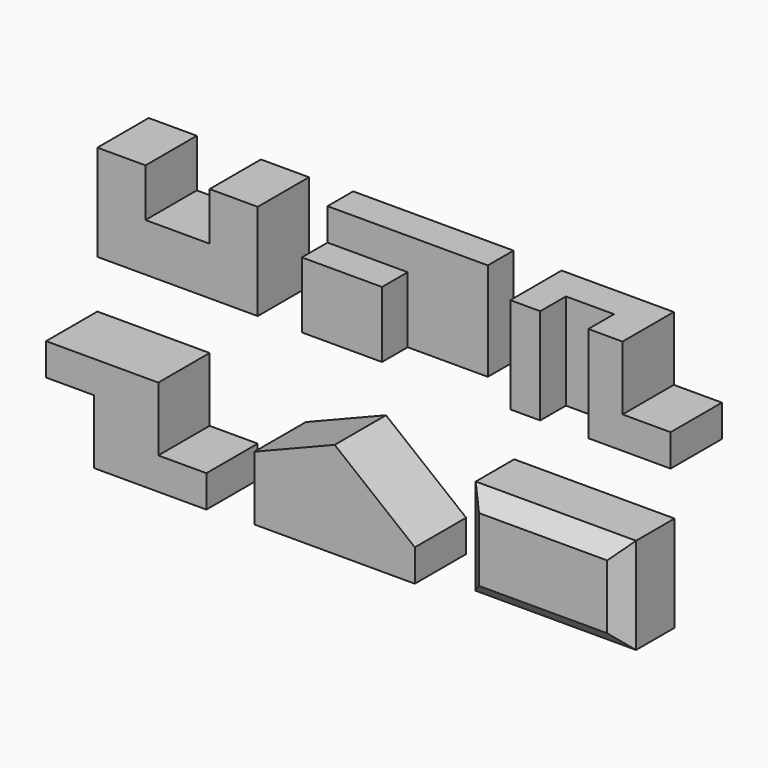
from build123d import *

# Parameters (mm, degrees)
F1_DEPTH   = 101.6
F3_DEPTH   = 155.448
F4_W       = 127
F4_H       = 35.615544
F5_DEPTH   = 50.8
F6_W       = 127
F6_H       = 50.8
F7_DEPTH   = 50.8
F9_DEPTH   = 101.6
F10_W      = 76.2
F10_H      = 50.8
F11_DEPTH  = 152.4
F13_DEPTH  = 101.6
F15_DEPTH  = 101.6
F16_W      = 254
F16_H      = 152.4
F17_DEPTH  = 101.6
F17_FACE_W = 254
F17_FACE_H = 152.4
F18_DEPTH  = 25.4
F19_SIZE   = 25.4


with BuildPart() as f1:
    # F0 (on Front) → F1 (new body)
    with BuildSketch(Plane.XZ):
        Polygon((0, 152.4), (0, 0), (254, 0), (254, 152.4), (177.8, 152.4), (177.8, 76.2), (76.2, 76.2), (76.2, 152.4), align=None)
    extrude(amount=-F1_DEPTH)


with BuildPart() as f3:
    # F2 (on Top) → F3 (new body)
    with BuildSketch(Plane.XY):
        Polygon((323.9641, 101.6), (323.9641, 0), (450.9641, 0), (450.9641, 50.8), (577.9641, 50.8), (577.9641, 101.6), align=None)
    extrude(amount=F3_DEPTH)

    # F4 (on face) → F5 (join)
    with BuildSketch(Plane.XZ):
        with Locations((387.4641, 137.640228)):
            Rectangle(F4_W, F4_H)
    extrude(amount=-F5_DEPTH)

    # F6 (on face) → F7 (cut)
    with BuildSketch(Plane.XZ):
        with Locations((387.4641, 130.048)):
            Rectangle(F6_W, F6_H)
    extrude(amount=-F7_DEPTH, mode=Mode.SUBTRACT)


with BuildPart() as f9:
    # F8 (on Front) → F9 (new body)
    with BuildSketch(Plane.XZ):
        Polygon((654.1641, 152.4), (654.1641, 0), (908.1641, 0), (908.1641, 50.8), (831.9641, 50.8), (831.9641, 152.4), align=None)
    extrude(amount=-F9_DEPTH)

    # F10 (on face) → F11 (cut)
    with BuildSketch(Plane.XY.offset(152.4)):
        with Locations((739.717122, 25.4)):
            Rectangle(F10_W, F10_H)
    extrude(amount=-F11_DEPTH, mode=Mode.SUBTRACT)


with BuildPart() as f13:
    # F12 (on Front) → F13 (new body)
    with BuildSketch(Plane.XZ):
        Polygon((177.8, -76.2), (0, -76.2), (0, -127), (76.2, -127), (76.2, -228.6), (254, -228.6), (254, -177.8), (177.8, -177.8), align=None)
    extrude(amount=F13_DEPTH)


with BuildPart() as f15:
    # F14 (on Front) → F15 (new body)
    with BuildSketch(Plane.XZ):
        Polygon((330.2, -122.984252), (330.2, -224.584252), (457.2, -224.584252), (457.2, -72.184252), align=None)
        Polygon((457.2, -72.184252), (457.2, -224.584252), (584.2, -224.584252), (584.2, -173.784252), align=None)
    extrude(amount=F15_DEPTH)


with BuildPart() as f17:
    # F16 (on Front) → F17 (new body)
    with BuildSketch(Plane.XZ):
        with Locations((787.4, -143.753507)):
            Rectangle(F16_W, F16_H)
    extrude(amount=F17_DEPTH)

    # F17_face (on face) → F18 (join)
    with BuildSketch(Plane(origin=(787.4, -101.6, -143.753507), x_dir=(1, 0, 0), z_dir=(0, -1, 0))):
        Rectangle(F17_FACE_W, F17_FACE_H)
    extrude(amount=-F18_DEPTH)

    # F19
    f19_edges = [f17.edges().sort_by_distance(p)[0] for p in [
        (660.4, -101.6, -143.753507),
        (787.4, -101.6, -219.953507),
        (914.4, -101.6, -143.753507),
        (787.4, -101.6, -67.553507),
    ]]
    chamfer(f19_edges, length=F19_SIZE)


solid = Compound([f1.part, f3.part, f9.part, f13.part, f15.part, f17.part])
